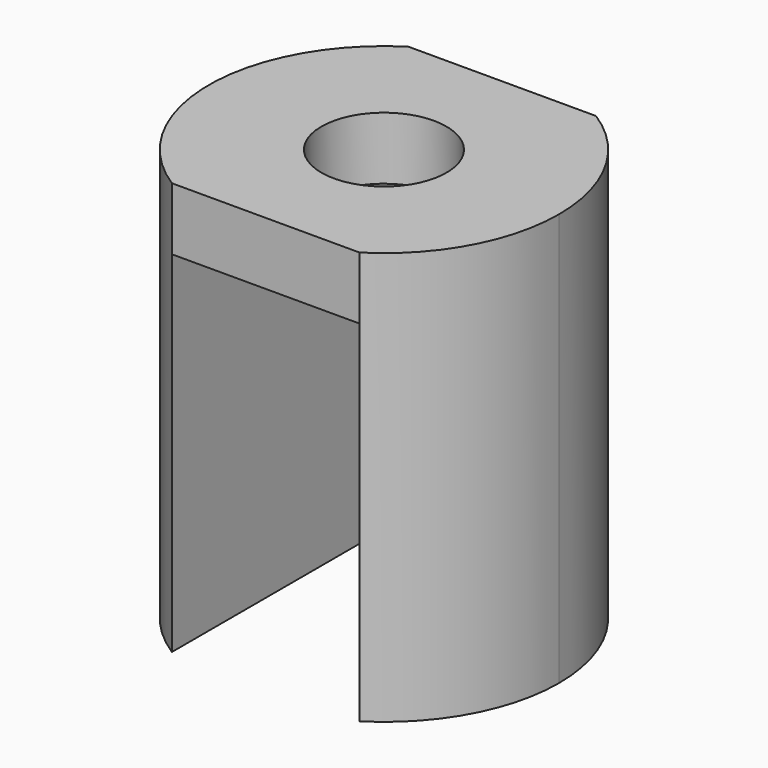
from build123d import *

# Parameters (mm, degrees)
F1_DEPTH = 5
F2_DEPTH = 28


with BuildPart() as f1:
    # F0 (on Top) → F1 (new body)
    with BuildSketch(Plane.XY):
        with BuildLine():
            Line((-7.5, 0), (-7.5, 11.82159))
            ThreePointArc((-7.5, 11.82159), (-14, 0), (-7.5, -11.82159))
            Line((-7.5, -11.82159), (-7.5, 0))
        make_face()
        with BuildLine():
            Line((-7.5, -11.82159), (7.5, -11.82159))
            Line((7.5, -11.82159), (7.5, 0))
            Line((7.5, 0), (5, 0))
            ThreePointArc((5, 0), (0, -5), (-5, 0))
            Line((-5, 0), (-7.5, 0))
            Line((-7.5, 0), (-7.5, -11.82159))
        make_face()
        with BuildLine():
            Line((7.5, 0), (7.5, 11.82159))
            Line((7.5, 11.82159), (-7.5, 11.82159))
            Line((-7.5, 11.82159), (-7.5, 0))
            Line((-7.5, 0), (-5, 0))
            ThreePointArc((-5, 0), (0, 5), (5, 0))
            Line((5, 0), (7.5, 0))
        make_face()
        with BuildLine():
            ThreePointArc((7.5, -11.82159), (12.267844, -6.745369), (14, 0))
            ThreePointArc((14, 0), (12.267844, 6.745369), (7.5, 11.82159))
            Line((7.5, 11.82159), (7.5, 0))
            Line((7.5, 0), (7.5, -11.82159))
        make_face()
    extrude(amount=F1_DEPTH)

    # F0 (on Top) → F2 (join)
    with BuildSketch(Plane.XY):
        with BuildLine():
            Line((-7.5, 0), (-7.5, 11.82159))
            ThreePointArc((-7.5, 11.82159), (-14, 0), (-7.5, -11.82159))
            Line((-7.5, -11.82159), (-7.5, 0))
        make_face()
        with BuildLine():
            ThreePointArc((7.5, -11.82159), (12.267844, -6.745369), (14, 0))
            ThreePointArc((14, 0), (12.267844, 6.745369), (7.5, 11.82159))
            Line((7.5, 11.82159), (7.5, 0))
            Line((7.5, 0), (7.5, -11.82159))
        make_face()
    extrude(amount=-F2_DEPTH)


solid = f1.part
